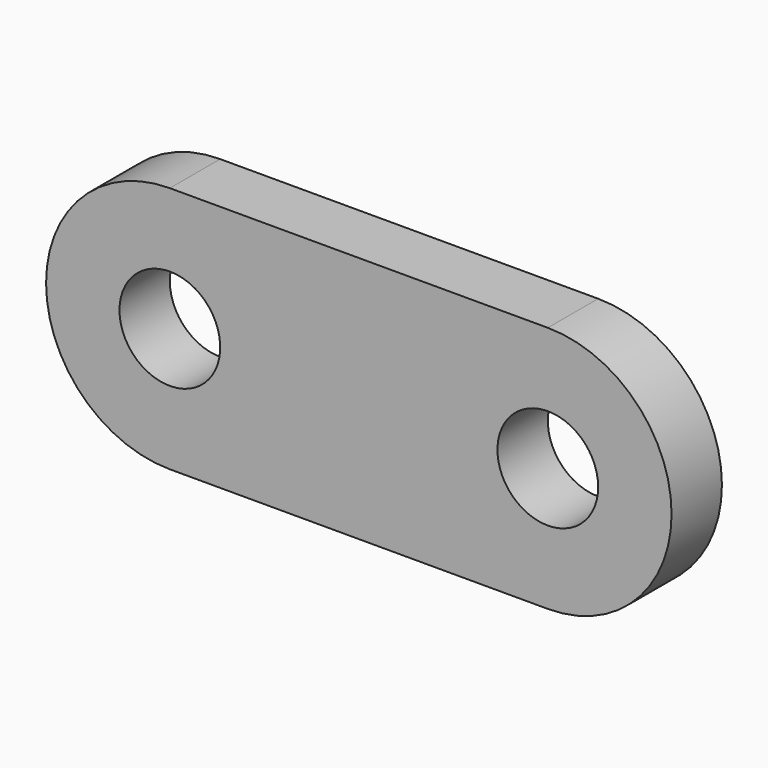
from build123d import *

# Parameters (mm, degrees)
F0_R     = 4.0005
F1_DEPTH = 2.5


with BuildPart() as f1:
    # F0 (on Front) → F1 (new body, symmetric)
    with BuildSketch(Plane.XZ):
        with BuildLine():
            Line((0, 9.8298), (0, 0))
            Line((0, 0), (-11.0109, 0))
            ThreePointArc((-11.0109, 0), (-15.0114, -4.0005), (-19.0119, 0))
            Line((-19.0119, 0), (-24.8412, 0))
            ThreePointArc((-24.8412, 0), (-21.962118, -6.950718), (-15.0114, -9.8298))
            Line((-15.0114, -9.8298), (0, -9.8298))
            Line((0, -9.8298), (15.0114, -9.8298))
            ThreePointArc((15.0114, -9.8298), (24.8412, 0), (15.0114, 9.8298))
            Line((15.0114, 9.8298), (0, 9.8298))
        make_face()
        with Locations((15.0114, 0)):
            Circle(F0_R, mode=Mode.SUBTRACT)
        with BuildLine():
            Line((-11.0109, 0), (0, 0))
            Line((0, 0), (0, 9.8298))
            Line((0, 9.8298), (-15.0114, 9.8298))
            ThreePointArc((-15.0114, 9.8298), (-21.962118, 6.950718), (-24.8412, 0))
            Line((-24.8412, 0), (-19.0119, 0))
            ThreePointArc((-19.0119, 0), (-15.0114, 4.0005), (-11.0109, 0))
        make_face()
    extrude(amount=F1_DEPTH, both=True)


solid = f1.part
